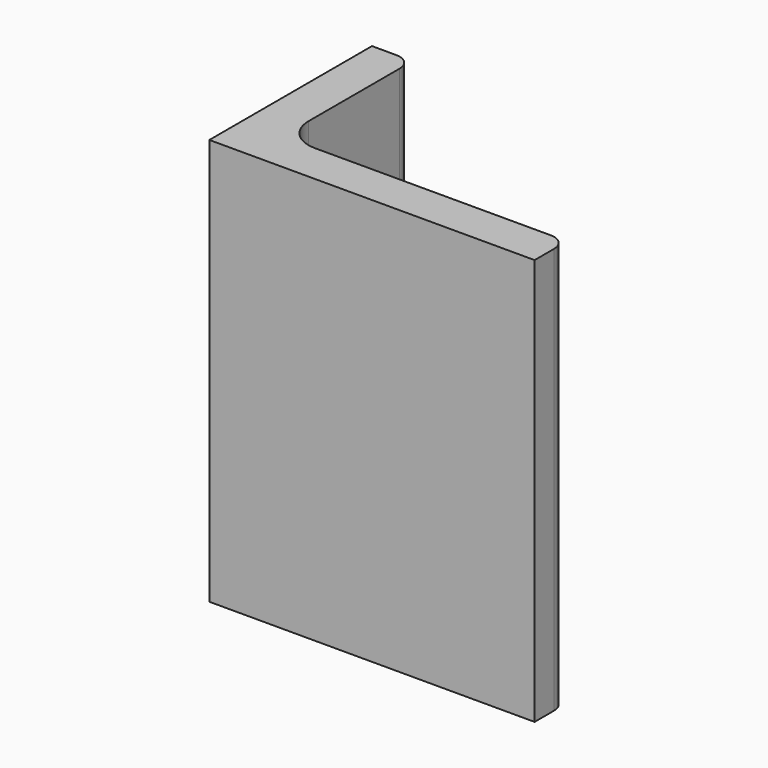
from build123d import *

# Parameters (mm, degrees)
EXTRUDE_DEPTH = 50


with BuildPart() as part:
    # Sketch → Extrude (new body)
    with BuildSketch(Plane.XY):
        with BuildLine():
            Line((0, 0), (40, 0))
            Line((40, 0), (40, 3))
            ThreePointArc((40, 3), (39.414214, 4.414214), (38, 5))
            Line((38, 5), (9, 5))
            ThreePointArc((5, 9), (6.171573, 6.171573), (9, 5))
            Line((5, 23), (5, 9))
            ThreePointArc((5, 23), (4.414214, 24.414214), (3, 25))
            Line((0, 25), (3, 25))
            Line((0, 0), (0, 25))
        make_face()
    extrude(amount=EXTRUDE_DEPTH)


solid = part.part
